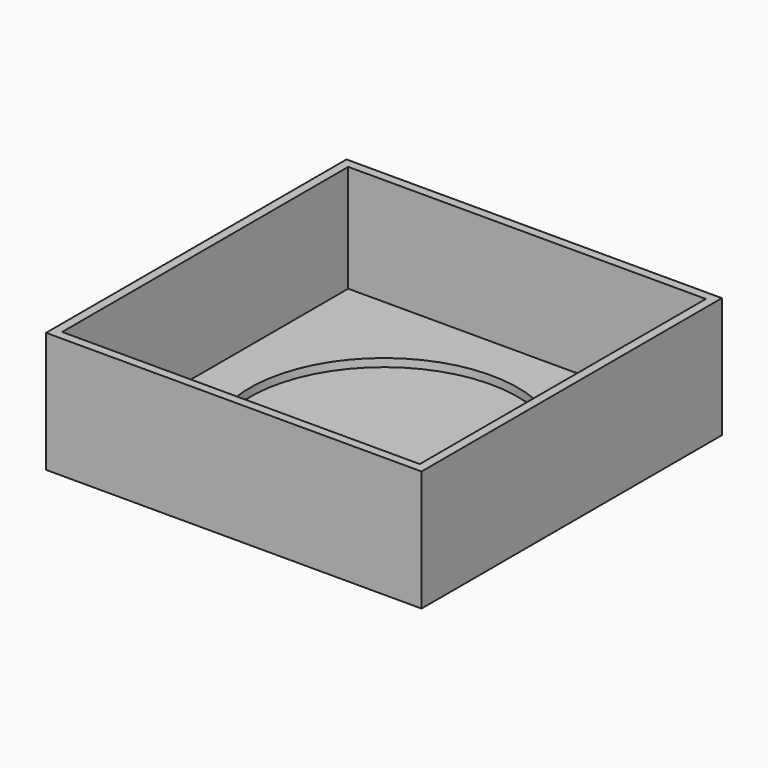
from build123d import *

# Parameters (mm, degrees)
F0_W        = 106.68
F0_H        = 106.68
F0_W_2      = 101.6
F0_H_2      = 101.6
F0_R        = 38.1
F1_DEPTH    = 8.89
F2_DEPTH    = 5.08
F3_DEPTH    = 7.366
F2_FACE_W   = 106.68
F2_FACE_H   = 106.68
F2_FACE_W_2 = 101.6
F2_FACE_H_2 = 101.6
F4_DEPTH    = 25.4


with BuildPart() as f1:
    # F0 (on Top) → F1 (new body)
    with BuildSketch(Plane.XY):
        Rectangle(F0_W, F0_H)
        Rectangle(F0_W_2, F0_H_2, mode=Mode.SUBTRACT)
        Rectangle(F0_W_2, F0_H_2)
        Circle(F0_R, mode=Mode.SUBTRACT)
        Circle(F0_R)
    extrude(amount=-F1_DEPTH)

    # F0 (on Top) → F2 (cut)
    with BuildSketch(Plane.XY):
        Rectangle(F0_W_2, F0_H_2)
        Circle(F0_R, mode=Mode.SUBTRACT)
    extrude(amount=-F2_DEPTH, mode=Mode.SUBTRACT)

    # F0 (on Top) → F3 (cut)
    with BuildSketch(Plane.XY):
        Circle(F0_R)
    extrude(amount=-F3_DEPTH, mode=Mode.SUBTRACT)

    # F2_face (on face) → F4 (join)
    with BuildSketch(Plane.XY):
        Rectangle(F2_FACE_W, F2_FACE_H)
        Rectangle(F2_FACE_W_2, F2_FACE_H_2, mode=Mode.SUBTRACT)
    extrude(amount=F4_DEPTH)


solid = f1.part
